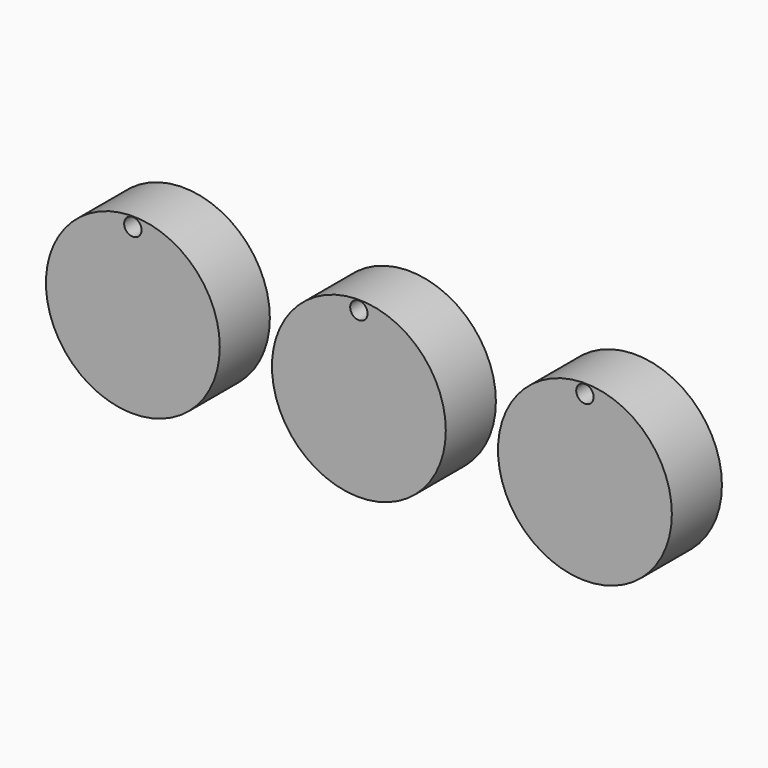
from build123d import *

# Parameters (mm, degrees)
F0_R     = 31.75
F1_DEPTH = 22.86
F2_R     = 3.175
F3_DEPTH = 25.4
F4_DEPTH = 25.4
F5_DEPTH = 25.4


with BuildPart() as f1:
    # F0 (on Front) → F1 (new body)
    with BuildSketch(Plane.XZ):
        with Locations((-82.55, 0)):
            Circle(F0_R)
        Circle(F0_R)
        with Locations((82.55, 0)):
            Circle(F0_R)
    extrude(amount=F1_DEPTH)

    # F2 (on face) → F3 (cut)
    with BuildSketch(Plane.XZ.offset(22.86)):
        with Locations((-82.55, 28.321)):
            Circle(F2_R)
    extrude(amount=-F3_DEPTH, mode=Mode.SUBTRACT)

    # F2 (on face) → F4 (cut)
    with BuildSketch(Plane.XZ.offset(22.86)):
        with Locations((0, 28.321)):
            Circle(F2_R)
    extrude(amount=-F4_DEPTH, mode=Mode.SUBTRACT)

    # F2 (on face) → F5 (cut)
    with BuildSketch(Plane.XZ.offset(22.86)):
        with Locations((82.55, 28.321)):
            Circle(F2_R)
    extrude(amount=-F5_DEPTH, mode=Mode.SUBTRACT)


solid = f1.part
